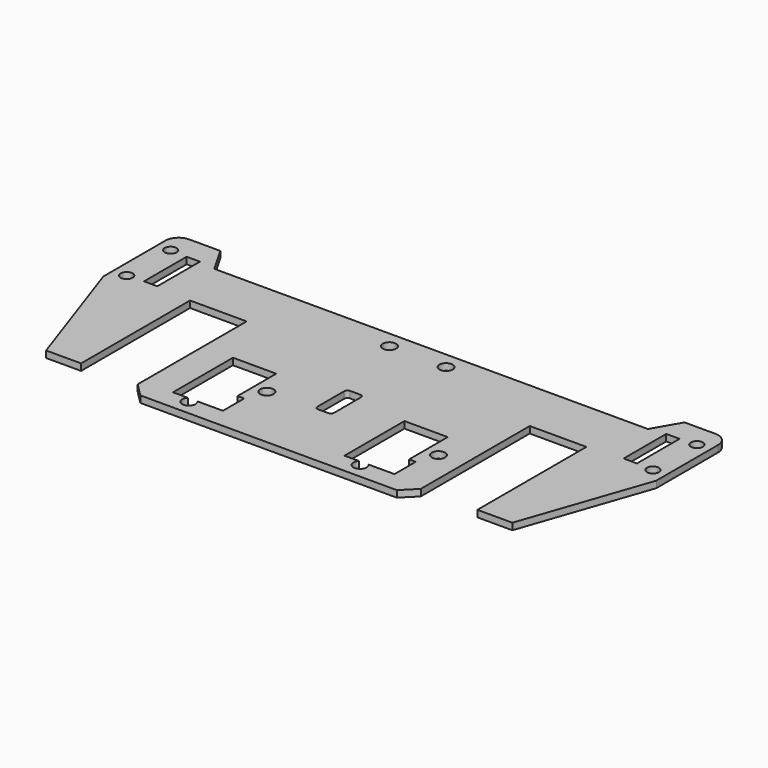
from build123d import *

# Parameters (mm, degrees)
PAD_DEPTH          = 2
SKETCH001_R        = 1.8
SKETCH001_W        = 4
SKETCH001_H        = 16
POCKET_DEPTH       = 2.001
SKETCH002_R        = 2
POCKET001_DEPTH    = 2.001
SKETCH003_W        = 17
SKETCH003_H        = 43.9
POCKET002_DEPTH    = 2.001
SKETCH004_R        = 2
POCKET003_DEPTH    = 2.001
POCKET011002_DEPTH = 2.001


with BuildPart() as part:
    # Sketch → Pad (new body)
    with BuildSketch(Plane.XY):
        with BuildLine():
            Line((65.081198, 28.5), (-65.081198, 28.5))
            Line((-65.081198, 28.5), (-69.7, 36.5))
            Line((-69.7, 36.5), (-79, 36.5))
            ThreePointArc((-79, 36.5), (-81.828427, 35.328427), (-83, 32.5))
            Line((-83, 32.5), (-83, 9.254741))
            Line((-83, 9.254741), (-70, -28.5))
            Line((-42.5, -28.5), (-70, -28.5))
            Line((-42.5, -28.5), (-38.5, -32.5))
            Line((-38.5, -32.5), (38.5, -32.5))
            Line((38.5, -32.5), (42.5, -28.5))
            Line((42.5, -28.5), (70, -28.5))
            Line((70, -28.5), (83, 9.254741))
            Line((83, 9.254741), (83, 32.5))
            ThreePointArc((83, 32.5), (81.828427, 35.328427), (79, 36.5))
            Line((79, 36.5), (69.7, 36.5))
            Line((69.7, 36.5), (65.081198, 28.5))
        make_face()
    extrude(amount=-PAD_DEPTH)

    # Sketch001 → Pocket (cut, through all)
    with BuildSketch(Plane.XY):
        with Locations((-79, 29.5)):
            Circle(SKETCH001_R)
        with Locations((-79, 13)):
            Circle(SKETCH001_R)
        with Locations((79, 29.5)):
            Circle(SKETCH001_R)
        with Locations((79, 13)):
            Circle(SKETCH001_R)
        with Locations((-72, 21.25)):
            Rectangle(SKETCH001_W, SKETCH001_H)
        with Locations((72, 21.25)):
            Rectangle(SKETCH001_W, SKETCH001_H)
    extrude(amount=-POCKET_DEPTH, mode=Mode.SUBTRACT)

    # Sketch002 → Pocket001 (cut, through all)
    with BuildSketch(Plane.XY):
        with Locations((-16.5, -12.5)):
            Circle(SKETCH002_R)
        with Locations((35, -12.5)):
            Circle(SKETCH002_R)
        with BuildLine():
            Line((-33.5, -4), (-20.5, -4))
            Line((-20.5, -4), (-20.5, -18.5))
            Line((-20.5, -18.5), (-18.5, -18.5))
            Line((-18.5, -18.5), (-18.5, -26.5))
            Line((-18.5, -26.5), (-26.171714, -26.5))
            ThreePointArc((-29.028286, -26.5), (-27.6, -29.9), (-26.171714, -26.5))
            Line((-33.5, -26.5), (-29.028286, -26.5))
            Line((-33.5, -26.5), (-33.5, -4))
        make_face()
        with BuildLine():
            Line((18, -4), (31, -4))
            Line((31, -4), (31, -18.5))
            Line((31, -18.5), (33, -18.5))
            Line((33, -18.5), (33, -26.5))
            Line((25.228286, -26.5), (33, -26.5))
            ThreePointArc((22.371714, -26.5), (23.8, -29.9), (25.228286, -26.5))
            Line((22.371714, -26.5), (18, -26.5))
            Line((18, -26.5), (18, -4))
        make_face()
    extrude(amount=-POCKET001_DEPTH, mode=Mode.SUBTRACT)

    # Sketch003 → Pocket002 (cut, through all)
    with BuildSketch(Plane.XY):
        Polygon((-59.5, 12.4), (-42.5, 12.4), (-42.5, -28.5), (-42.5, -31.5), (-59.5, -31.5), (-59.5, -28.5), align=None)
        with Locations((51, -9.55)):
            Rectangle(SKETCH003_W, SKETCH003_H)
    extrude(amount=-POCKET002_DEPTH, mode=Mode.SUBTRACT)

    # Sketch004 → Pocket003 (cut, through all)
    with BuildSketch(Plane.XY):
        with Locations((-8.5, 23.5)):
            Circle(SKETCH004_R)
        with Locations((8.5, 23.5)):
            Circle(SKETCH004_R)
    extrude(amount=-POCKET003_DEPTH, mode=Mode.SUBTRACT)

    # Sketch016 → Pocket011002 (cut, through all)
    with BuildSketch(Plane.XY):
        with BuildLine():
            Line((-1.5, 0), (1.5, 0))
            ThreePointArc((2.5, -1), (2.207107, -0.292893), (1.5, 0))
            Line((2.5, -1), (2.5, -11))
            ThreePointArc((1.5, -12), (2.207107, -11.707107), (2.5, -11))
            Line((1.5, -12), (-1.5, -12))
            ThreePointArc((-2.5, -11), (-2.207107, -11.707107), (-1.5, -12))
            Line((-2.5, -11), (-2.5, -1))
            ThreePointArc((-1.5, 0), (-2.207107, -0.292893), (-2.5, -1))
        make_face()
    extrude(amount=-POCKET011002_DEPTH, mode=Mode.SUBTRACT)


solid = part.part
